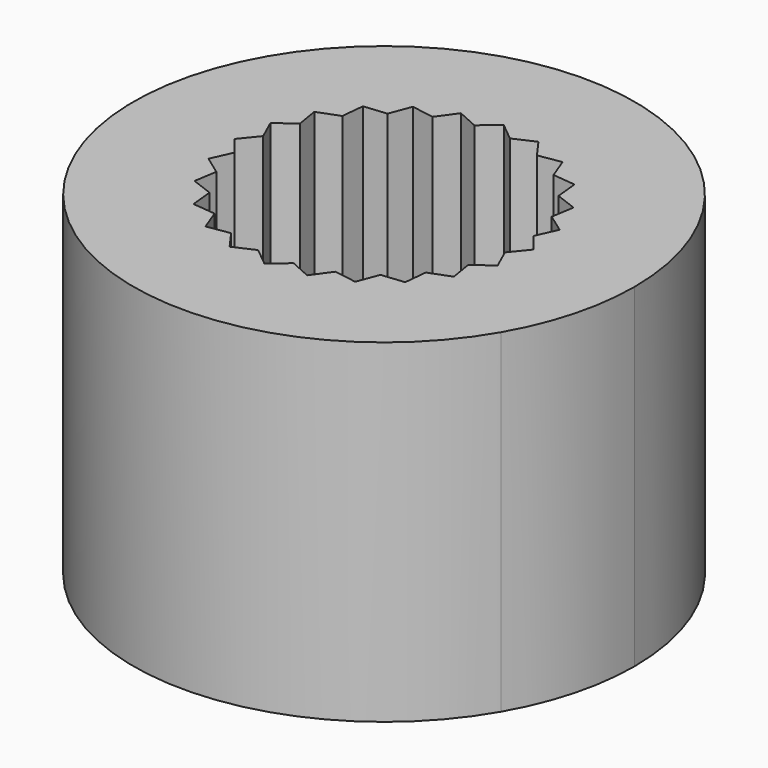
from build123d import *

# Parameters (mm, degrees)
F1_DEPTH = 6.35


with BuildPart() as f1:
    # F0 (on Top) → F1 (new body)
    with BuildSketch(Plane.XY):
        with BuildLine():
            ThreePointArc((4.124446, -2.38125), (4.600222, -1.232626), (4.7625, 0))
            ThreePointArc((4.7625, 0), (1.232626, 4.600222), (-4.124446, 2.38125))
            ThreePointArc((-4.124446, 2.38125), (-2.38125, -4.124446), (4.124446, -2.38125))
        make_face()
        Polygon((-0.736288, 2.747866), (-0.338167, 2.568635), (0, 2.8448), (0.338167, 2.568635), (0.736288, 2.747866), (0.991456, 2.393587), (1.4224, 2.463669), (1.577179, 2.05542), (2.011577, 2.011577), (2.05542, 1.577179), (2.463669, 1.4224), (2.393587, 0.991456), (2.747866, 0.736288), (2.568635, 0.338167), (2.8448, 0), (2.568635, -0.338167), (2.747866, -0.736288), (2.393587, -0.991456), (2.463669, -1.4224), (2.05542, -1.577179), (2.011577, -2.011577), (1.577179, -2.05542), (1.4224, -2.463669), (0.991456, -2.393587), (0.736288, -2.747866), (0.338167, -2.568635), (0, -2.8448), (-0.338167, -2.568635), (-0.736288, -2.747866), (-0.991456, -2.393587), (-1.4224, -2.463669), (-1.577179, -2.05542), (-2.011577, -2.011577), (-2.05542, -1.577179), (-2.463669, -1.4224), (-2.393587, -0.991456), (-2.747866, -0.736288), (-2.568635, -0.338167), (-2.8448, 0), (-2.568635, 0.338167), (-2.747866, 0.736288), (-2.393587, 0.991456), (-2.463669, 1.4224), (-2.05542, 1.577179), (-2.011577, 2.011577), (-1.577179, 2.05542), (-1.4224, 2.463669), (-0.991456, 2.393587), align=None, mode=Mode.SUBTRACT)
    extrude(amount=F1_DEPTH)


solid = f1.part
